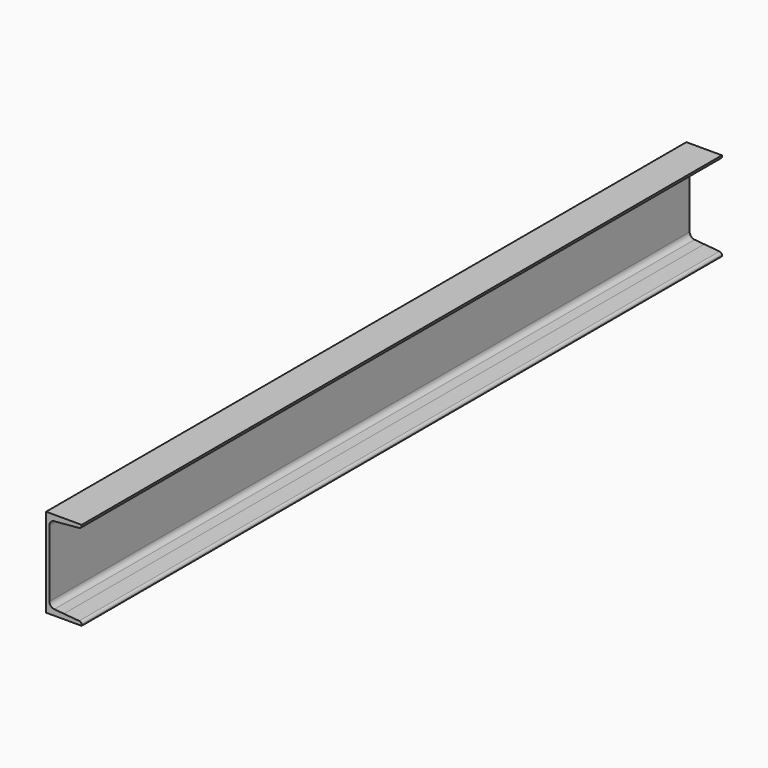
from build123d import *

# Parameters (mm, degrees)
F1_DEPTH = 900


with BuildPart() as f1:
    # F0 (on Front) → F1 (new body, symmetric)
    with BuildSketch(Plane.XZ):
        with BuildLine():
            Line((0, 100), (0, 0))
            Line((0, 0), (7.5, 0))
            Line((7.5, 0), (7.5, 75.160644))
            ThreePointArc((7.5, 75.160644), (10.652672, 83.267727), (18.454131, 87.114981))
            Line((18.454131, 87.114981), (40, 89))
            Line((40, 89), (40, 100))
            Line((40, 100), (0, 100))
        make_face()
        with BuildLine():
            Line((80, 100), (40, 100))
            Line((40, 100), (40, 89))
            Line((40, 89), (74.522934, 92.020365))
            ThreePointArc((74.522934, 92.020365), (78.423664, 93.943992), (80, 97.997534))
            Line((80, 97.997534), (80, 100))
        make_face()
        with BuildLine():
            Line((7.5, 0), (0, 0))
            Line((0, 0), (0, -100))
            Line((0, -100), (40, -100))
            Line((40, -100), (40, -89))
            Line((40, -89), (18.454131, -87.114981))
            ThreePointArc((18.454131, -87.114981), (10.652672, -83.267727), (7.5, -75.160644))
            Line((7.5, -75.160644), (7.5, 0))
        make_face()
        with BuildLine():
            Line((40, -89), (40, -100))
            Line((40, -100), (80, -100))
            Line((80, -100), (80, -97.997534))
            ThreePointArc((80, -97.997534), (78.423664, -93.943992), (74.522934, -92.020365))
            Line((74.522934, -92.020365), (40, -89))
        make_face()
    extrude(amount=F1_DEPTH, both=True)


solid = f1.part
